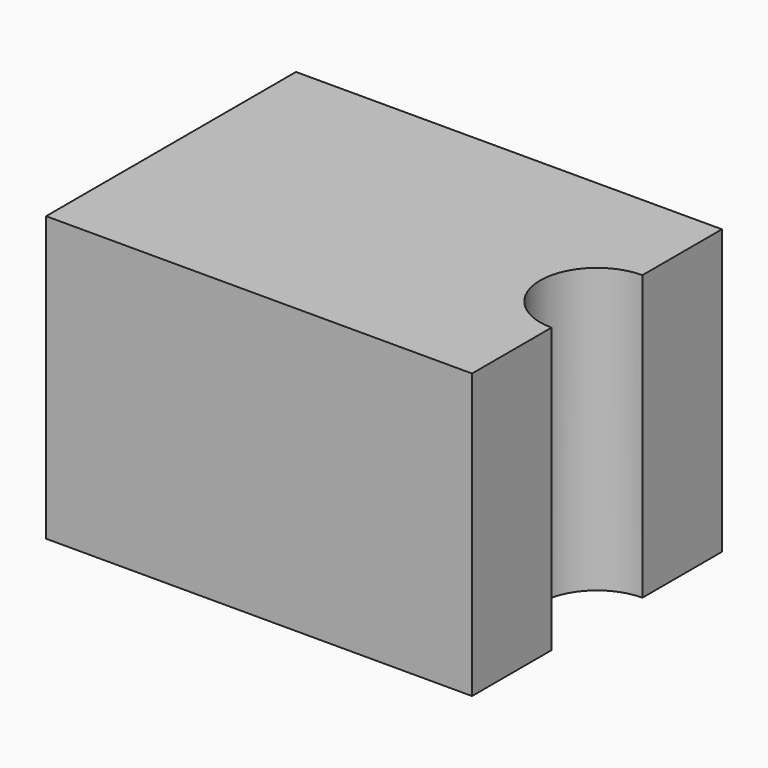
from build123d import *

# Parameters (mm, degrees)
F1_DEPTH = 100


with BuildPart() as f1:
    # F0 (on Top) → F1 (new body)
    with BuildSketch(Plane.XY):
        with BuildLine():
            ThreePointArc((0, -20), (-20, 0), (0, 20))
            Line((0, 20), (0, 55))
            Line((0, 55), (-150, 55))
            Line((-150, 55), (-150, -55))
            Line((-150, -55), (0, -55))
            Line((0, -55), (0, -20))
        make_face()
    extrude(amount=F1_DEPTH)


solid = f1.part
